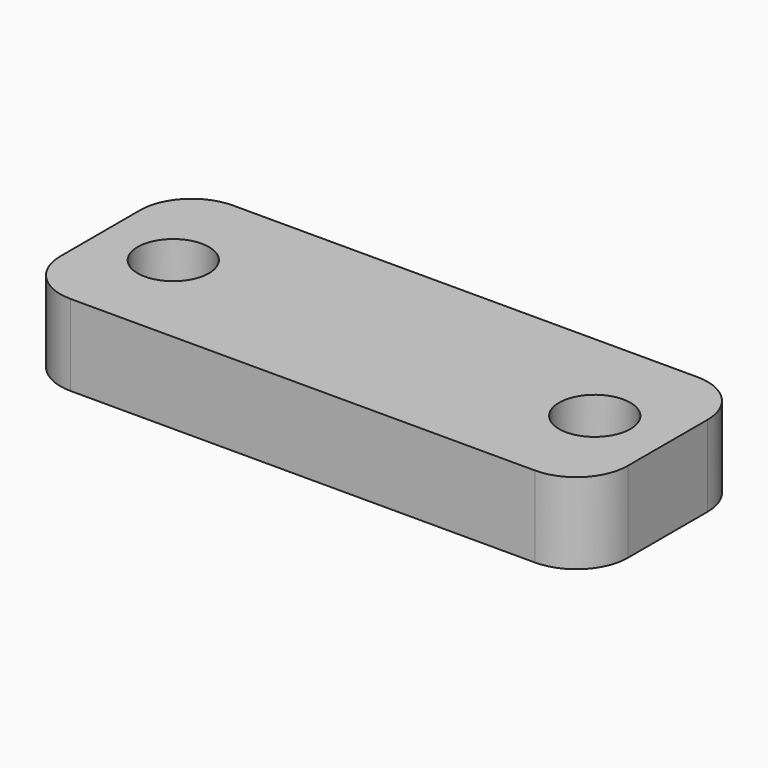
from build123d import *

# Parameters (mm, degrees)
F0_W     = 70
F0_H     = 25
F0_R     = 4.4
F1_DEPTH = 10
F2_R     = 6.35


with BuildPart() as f1:
    # F0 (on Top) → F1 (new body)
    with BuildSketch(Plane.XY):
        Rectangle(F0_W, F0_H)
        with Locations((-26, 0)):
            Circle(F0_R, mode=Mode.SUBTRACT)
        with Locations((26, 0)):
            Circle(F0_R, mode=Mode.SUBTRACT)
    extrude(amount=F1_DEPTH)

    # F2
    f2_edges = [f1.edges().sort_by_distance(p)[0] for p in [
        (-35, 12.5, 5),
        (35, 12.5, 5),
        (35, -12.5, 5),
        (-35, -12.5, 5),
    ]]
    fillet(f2_edges, radius=F2_R)


solid = f1.part
